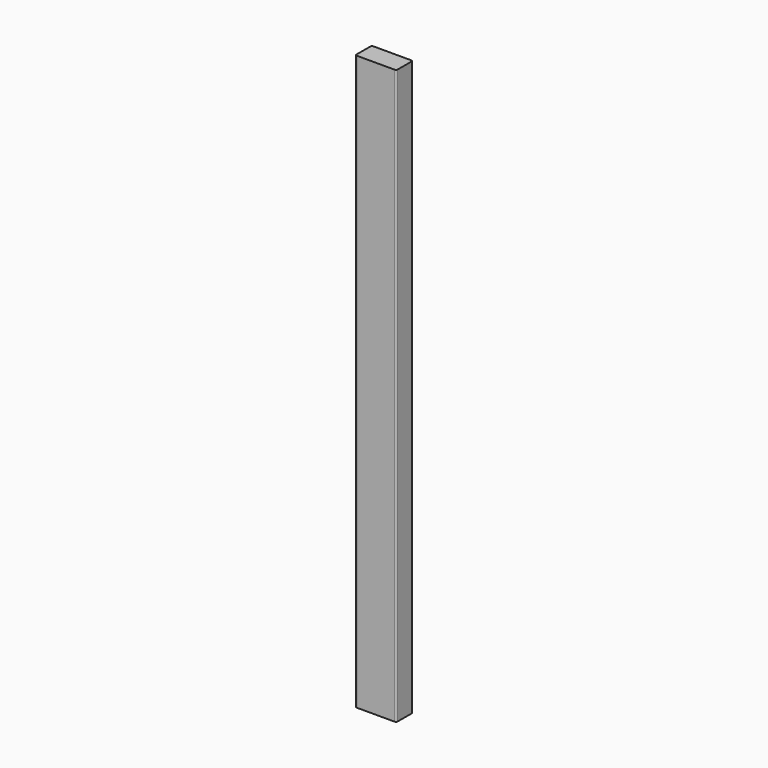
from build123d import *

# Parameters (mm, degrees)
PAD_DEPTH = 700


with BuildPart() as part:
    # Sketch → Pad (new body)
    with BuildSketch(Plane.XY):
        with BuildLine():
            Line((-23, 12.5), (23, 12.5))
            ThreePointArc((25, 10.5), (24.414214, 11.914214), (23, 12.5))
            Line((25, 10.5), (25, -10.5))
            ThreePointArc((23, -12.5), (24.414214, -11.914214), (25, -10.5))
            Line((23, -12.5), (-23, -12.5))
            ThreePointArc((-25, -10.5), (-24.414214, -11.914214), (-23, -12.5))
            Line((-25, -10.5), (-25, 10.5))
            ThreePointArc((-23, 12.5), (-24.414214, 11.914214), (-25, 10.5))
        make_face()
    extrude(amount=PAD_DEPTH)


solid = part.part
